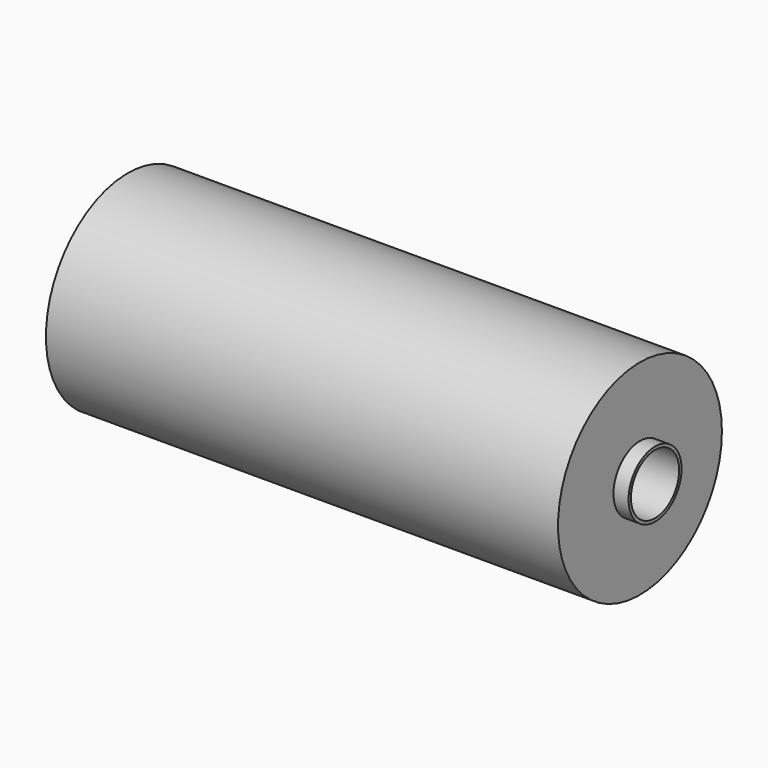
from build123d import *

# Parameters (mm, degrees)
F0_R     = 170
F0_R_2   = 50
F2_DEPTH = 425
F1_R     = 55
F1_R_2   = 50
F3_DEPTH = 450


with BuildPart() as f2:
    # F0 (on Right) → F2 (new body, symmetric)
    with BuildSketch(Plane.YZ):
        Circle(F0_R)
        Circle(F0_R_2, mode=Mode.SUBTRACT)
    extrude(amount=F2_DEPTH, both=True)


with BuildPart() as f3:
    # F1 (on face) → F3 (new body, symmetric)
    with BuildSketch(Plane.YZ):
        Circle(F1_R)
        Circle(F1_R_2, mode=Mode.SUBTRACT)
    extrude(amount=F3_DEPTH, both=True)


solid = Compound([f2.part, f3.part])
